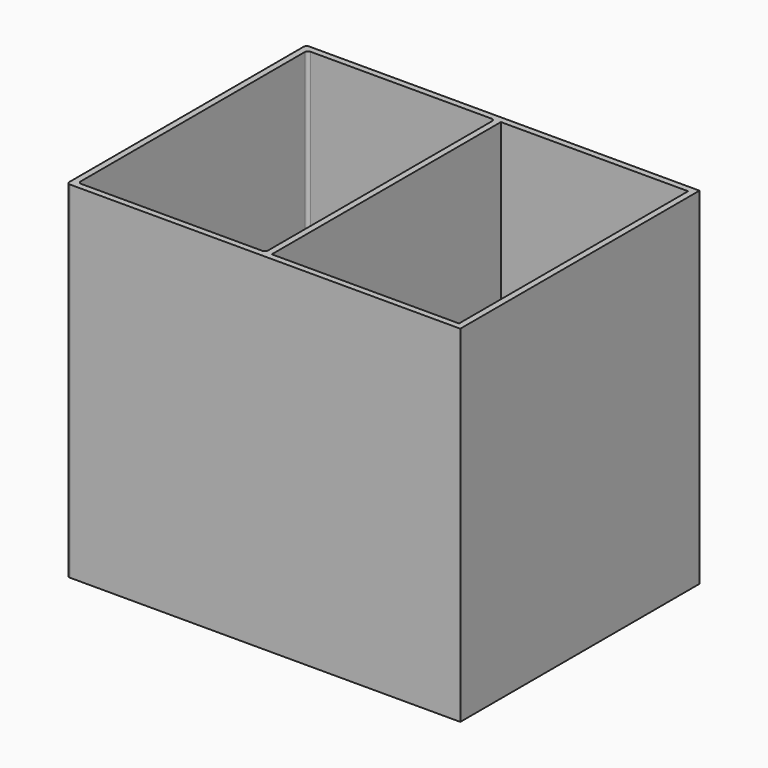
from build123d import *

# Parameters (mm, degrees)
F0_W     = 50
F0_H     = 38
F1_DEPTH = 0.8
F2_W     = 50
F2_H     = 38
F2_W_2   = 23.8
F2_H_2   = 36.4
F3_DEPTH = 43.2
F4_R     = 0.4


with BuildPart() as f1:
    # F0 (on Top) → F1 (new body)
    with BuildSketch(Plane.XY):
        with Locations((-25, 19)):
            Rectangle(F0_W, F0_H)
    extrude(amount=F1_DEPTH)

    # F2 (on face) → F3 (join)
    with BuildSketch(Plane.XY.offset(0.8)):
        with Locations((-25, 19)):
            Rectangle(F2_W, F2_H)
        with Locations((-37.3, 19)):
            Rectangle(F2_W_2, F2_H_2, mode=Mode.SUBTRACT)
        with Locations((-12.7, 19)):
            Rectangle(F2_W_2, F2_H_2, mode=Mode.SUBTRACT)
    extrude(amount=F3_DEPTH)

    # F4
    f4_edges = [f1.edges().sort_by_distance(p)[0] for p in [
        (-50, 0, 22),
        (-49.2, 0.8, 22.4),
        (-49.2, 37.2, 22.4),
        (-50, 38, 22),
        (-25.4, 37.2, 22.4),
        (-25.4, 0.8, 22.4),
    ]]
    fillet(f4_edges, radius=F4_R)


solid = f1.part
